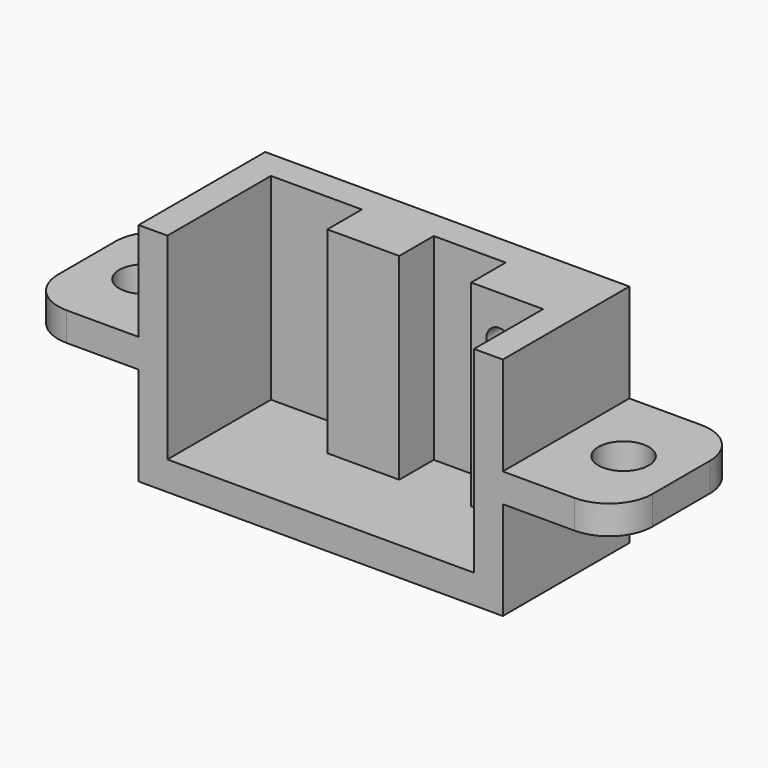
from build123d import *

# Parameters (mm, degrees)
F0_W      = 25.32
F0_H      = 15.7
F1_DEPTH  = 2
F3_DEPTH  = 9
F4_W      = 5
F4_H      = 13.7
F5_DEPTH  = 3
F6_R      = 0.9
F7_DEPTH  = 5.001
F8_W      = 11
F8_H      = 2
F9_DEPTH  = 8
F10_R     = 3
F11_W     = 11
F11_H     = 2
F12_DEPTH = 8
F13_R     = 3
F14_R     = 1.75
F15_DEPTH = 8.851
F16_R     = 1.75
F17_DEPTH = 8.851


with BuildPart() as f1:
    # F0 (on Front) → F1 (new body)
    with BuildSketch(Plane.XZ):
        with Locations((10.16, 5.35)):
            Rectangle(F0_W, F0_H)
    extrude(amount=F1_DEPTH)

    # F2 (on face) → F3 (join)
    with BuildSketch(Plane.XZ.offset(2)):
        Polygon((-2.5, 13.2), (-2.5, -2.5), (22.82, -2.5), (22.82, 13.2), (20.82, 13.2), (20.82, -0.5), (-0.5, -0.5), (-0.5, 13.2), align=None)
    extrude(amount=F3_DEPTH)

    # F4 (on face) → F5 (join)
    with BuildSketch(Plane.XZ.offset(2)):
        with Locations((8.32, 6.35)):
            Rectangle(F4_W, F4_H)
        with Locations((18.32, 6.35)):
            Rectangle(F4_W, F4_H)
    extrude(amount=F5_DEPTH)

    # F6 (on face) → F7 (cut, through all)
    with BuildSketch(Plane.XZ.offset(5)):
        with Locations((17.78, 10.16)):
            Circle(F6_R)
    extrude(amount=-F7_DEPTH, mode=Mode.SUBTRACT)

    # F8 (on face) → F9 (join)
    with BuildSketch(Plane(origin=(-2.5, 0, 0), x_dir=(0, -1, 0), z_dir=(-1, 0, 0))):
        with Locations((5.5, 5.35)):
            Rectangle(F8_W, F8_H)
    extrude(amount=F9_DEPTH)

    # F10
    f10_edges = [f1.edges().sort_by_distance(p)[0] for p in [
        (-10.5, -11, 5.35),
        (-10.5, 0, 5.35),
    ]]
    fillet(f10_edges, radius=F10_R)

    # F11 (on face) → F12 (join)
    with BuildSketch(Plane.YZ.offset(22.82)):
        with Locations((-5.5, 5.35)):
            Rectangle(F11_W, F11_H)
    extrude(amount=F12_DEPTH)

    # F13
    f13_edges = [f1.edges().sort_by_distance(p)[0] for p in [
        (30.82, -11, 5.35),
        (30.82, 0, 5.35),
    ]]
    fillet(f13_edges, radius=F13_R)

    # F14 (on face) → F15 (cut, through all)
    with BuildSketch(Plane.XY.offset(6.35)):
        with Locations((-6.5, -5.5)):
            Circle(F14_R)
    extrude(amount=-F15_DEPTH, mode=Mode.SUBTRACT)

    # F16 (on face) → F17 (cut, through all)
    with BuildSketch(Plane.XY.offset(6.35)):
        with Locations((26.82, -5.5)):
            Circle(F16_R)
    extrude(amount=-F17_DEPTH, mode=Mode.SUBTRACT)


solid = f1.part
